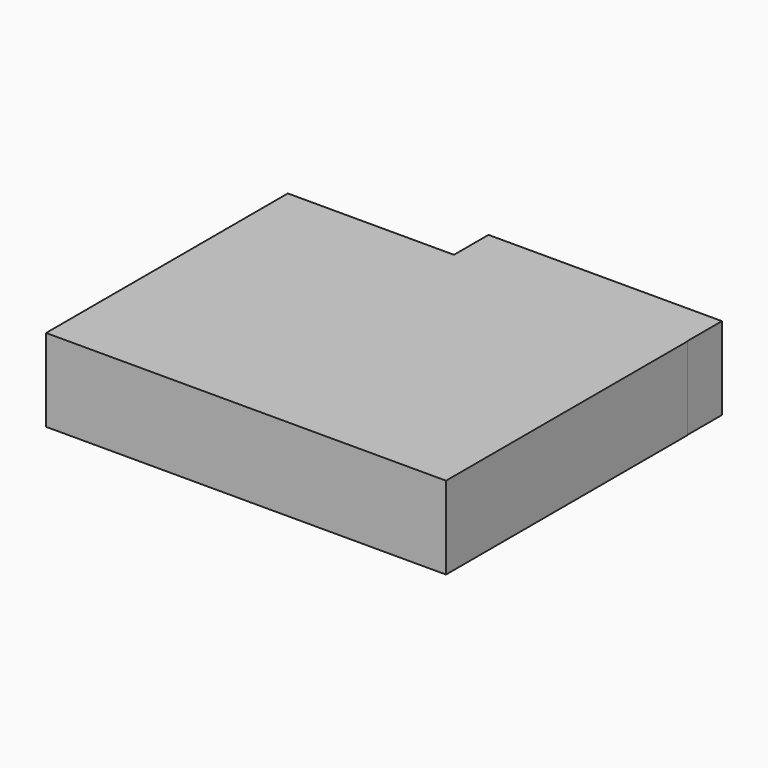
from build123d import *

# Parameters (mm, degrees)
F1_W     = 70.597217
F1_H     = 13.04432
F2_DEPTH = 25
F0_W     = 120.94754
F0_H     = 91.376678
F3_DEPTH = 25


with BuildPart() as f2:
    # F1 (on face) → F2 (new body)
    with BuildSketch(Plane.XY):
        with Locations((25.074787, 52.210499)):
            Rectangle(F1_W, F1_H)
    extrude(amount=F2_DEPTH)

    # F0 (on Top) → F3 (join)
    with BuildSketch(Plane.XY):
        Rectangle(F0_W, F0_H)
    extrude(amount=F3_DEPTH)


solid = f2.part
